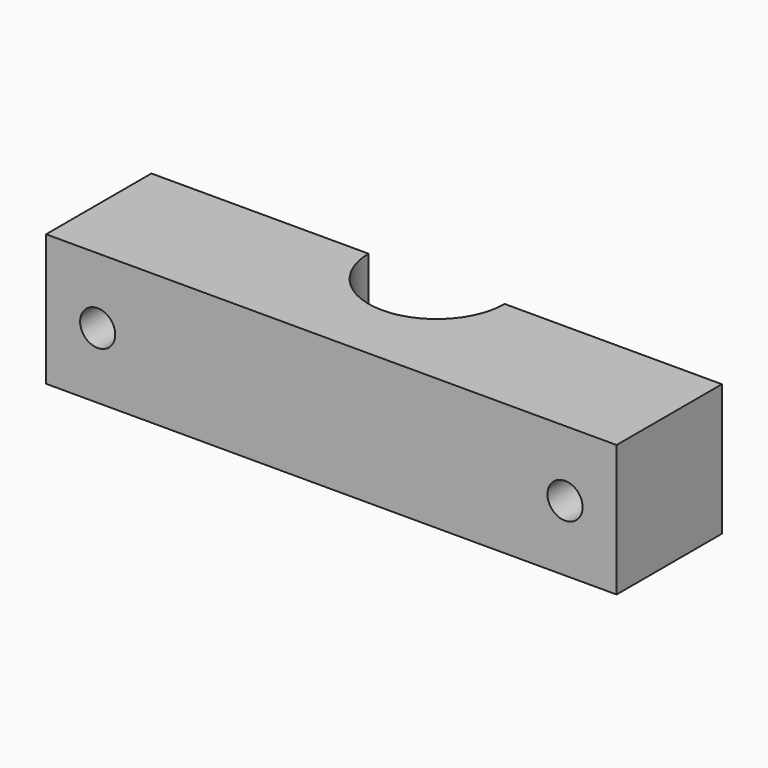
from build123d import *

# Parameters (mm, degrees)
F2_DEPTH = 12
F3_DEPTH = 6
F4_R     = 1.6
F5_DEPTH = 25


with BuildPart() as f2:
    # F1 (on Top) → F2 (new body)
    with BuildSketch(Plane.XY):
        with BuildLine():
            Line((8, 0), (6.2, 0))
            ThreePointArc((6.2, 0), (4.384062, -4.384062), (0, -6.2))
            Line((0, -6.2), (0, -8))
            ThreePointArc((0, -8), (5.656854, -5.656854), (8, 0))
        make_face()
        with BuildLine():
            Line((26, 0), (8, 0))
            ThreePointArc((8, 0), (5.656854, -5.656854), (0, -8))
            Line((0, -8), (0, -12))
            Line((0, -12), (26, -12))
            Line((26, -12), (26, 0))
        make_face()
        with BuildLine():
            Line((0, -8), (0, -6.2))
            ThreePointArc((0, -6.2), (-4.384062, -4.384062), (-6.2, 0))
            Line((-6.2, 0), (-8, 0))
            ThreePointArc((-8, 0), (-5.656854, -5.656854), (0, -8))
        make_face()
        with BuildLine():
            Line((0, -12), (0, -8))
            ThreePointArc((0, -8), (-5.656854, -5.656854), (-8, 0))
            Line((-8, 0), (-26, 0))
            Line((-26, 0), (-26, -12))
            Line((-26, -12), (0, -12))
        make_face()
    extrude(amount=F2_DEPTH)

    # F1 (on Top) → F3 (cut)
    with BuildSketch(Plane.XY):
        with BuildLine():
            Line((0, -8), (0, -6.2))
            ThreePointArc((0, -6.2), (-4.384062, -4.384062), (-6.2, 0))
            Line((-6.2, 0), (-8, 0))
            ThreePointArc((-8, 0), (-5.656854, -5.656854), (0, -8))
        make_face()
        with BuildLine():
            Line((8, 0), (6.2, 0))
            ThreePointArc((6.2, 0), (4.384062, -4.384062), (0, -6.2))
            Line((0, -6.2), (0, -8))
            ThreePointArc((0, -8), (5.656854, -5.656854), (8, 0))
        make_face()
    extrude(amount=F3_DEPTH, mode=Mode.SUBTRACT)

    # F4 (on face) → F5 (cut)
    with BuildSketch(Plane.XZ.offset(12)):
        with Locations((-21.3, 6)):
            Circle(F4_R)
        with Locations((21.3, 6)):
            Circle(F4_R)
    extrude(amount=-F5_DEPTH, mode=Mode.SUBTRACT)


solid = f2.part
